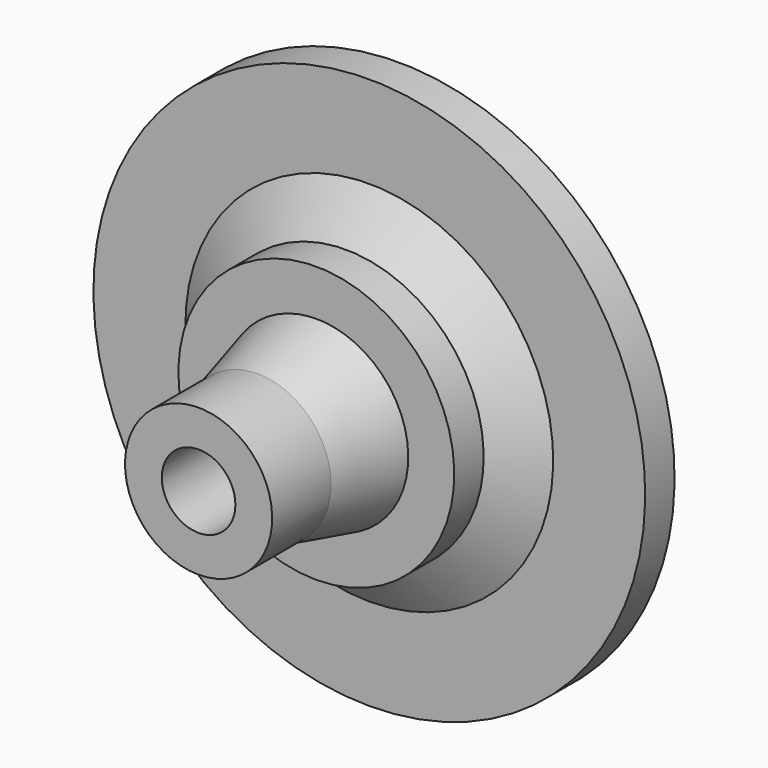
from build123d import *

# Parameters (mm, degrees)
F2_R     = 254
F3_DEPTH = 1727.201


with BuildPart() as f1:
    # F0 (on Right) → F1 (revolve)
    with BuildSketch(Plane.YZ):
        Polygon((0, -1905), (0, 0), (-1727.2, 0), (-1727.2, -508), (-1219.2, -508), (-711.2, -635), (-711.2, -952.5), (-457.2, -952.5), (-254, -1270), (-254, -1905), align=None)
    revolve(axis=Axis((0, -863.6, 0), (0, 1, 0)))

    # F2 (on face) → F3 (cut, through all)
    with BuildSketch(Plane.XZ.offset(1727.2)):
        Circle(F2_R)
    extrude(amount=-F3_DEPTH, mode=Mode.SUBTRACT)


solid = f1.part
